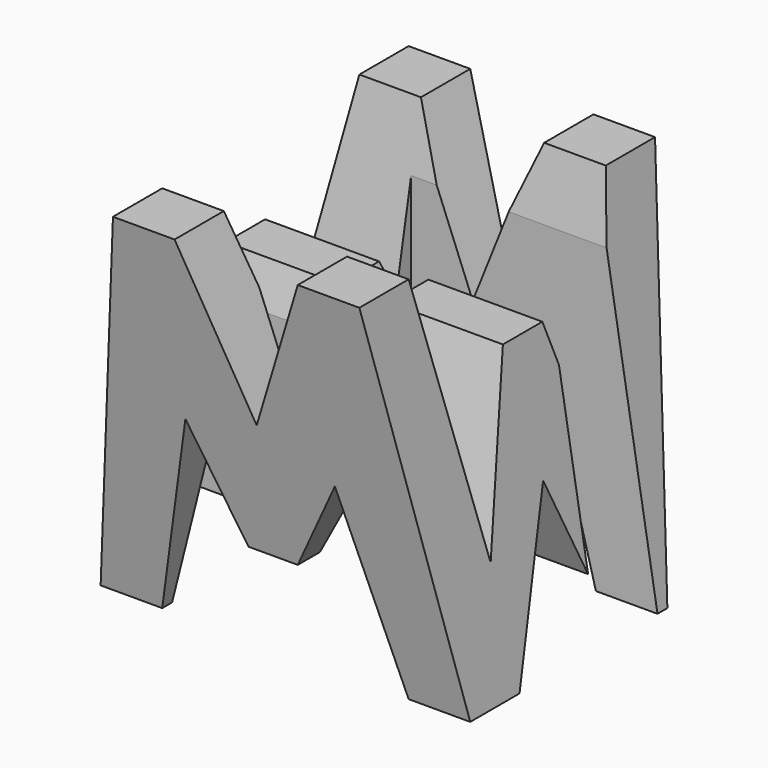
from build123d import *

# Parameters (mm, degrees)
F0_W      = 38.1
F0_H      = 38.1
F1_DEPTH  = 38.1
F6_DEPTH  = 38.1
F8_DEPTH  = 38.1
F9_W      = 25.4
F9_H      = 7.62
F10_DEPTH = 38.1


with BuildPart() as f1:
    # F0 (on Front) → F1 (new body)
    with BuildSketch(Plane.XZ):
        with Locations((19.05, 19.05)):
            Rectangle(F0_W, F0_H)
    extrude(amount=F1_DEPTH)

    # F5 (on offset) → F6 (cut)
    with BuildSketch(Plane.YZ.offset(38.1)):
        Polygon((-31.75, 0), (-38.1, 38.1), (-38.1, 0), align=None)
        Polygon((-11.43, 11.71486), (-6.35, 38.1), (-31.75, 38.1), (-26.67, 11.752735), (-21.59, 28.575), (-16.51, 28.575), align=None)
        Polygon((-25.4, 0), (-12.7, 0), (-19.05, 15.875), align=None)
        Polygon((-6.35, 0), (0, 0), (0, 38.1), align=None)
    extrude(amount=-F6_DEPTH, mode=Mode.SUBTRACT)

    # F7 (on offset) → F8 (cut)
    with BuildSketch(Plane.XZ.offset(38.1)):
        Polygon((0, 38.1), (0, 0), (6.35, 38.1), align=None)
        Polygon((25.4, 38.1), (12.7, 38.1), (19.05, 22.225), align=None)
        Polygon((31.75, 38.1), (38.1, 0), (38.1, 38.1), align=None)
        Polygon((11.43, 20.18944), (6.35, 0), (31.75, 0), (26.67, 18.943178), (21.59, 9.525), (16.51, 9.525), align=None)
    extrude(amount=-F8_DEPTH, mode=Mode.SUBTRACT)

    # F9 (on offset) → F10 (cut)
    with BuildSketch(Plane.XY.offset(38.1)):
        with Locations((25.4, -11.43)):
            Rectangle(F9_W, F9_H)
        with Locations((12.7, -26.67)):
            Rectangle(F9_W, F9_H)
    extrude(amount=-F10_DEPTH, mode=Mode.SUBTRACT)


solid = f1.part
